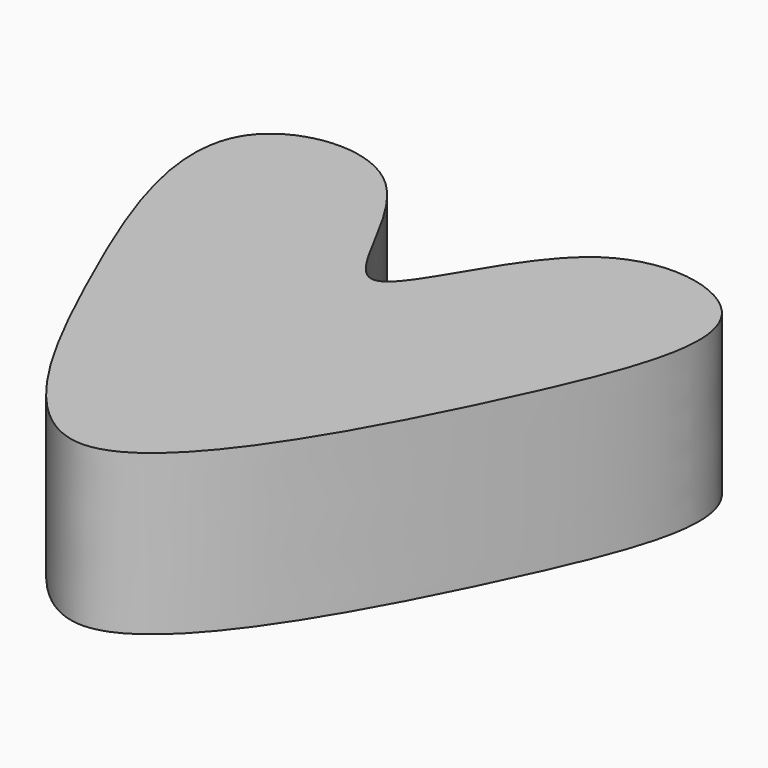
from build123d import *

# Parameters (mm, degrees)
F1_DEPTH = 25.4


with BuildPart() as f1:
    # F0 (on Top) → F1 (new body)
    with BuildSketch(Plane.XY):
        with BuildLine():
            add(Edge.make_bspline(
                [(0, 0), (4.3933145702, -0.1120914895), (13.6274721117, 29.838521997), (48.0325876156, 22.6458507937), (35.0080749169, -12.9598445145), (-0.21027845, -78.4511523976), (-28.9065110348, -21.1737659642), (-46.7319322029, 24.1231982435), (-11.4261267001, 29.1498327275), (-4.3040385439, 0.1098136916), (0, 0)],
                knots=[0, 0, 0, 0, 0.1149641911, 0.2160521857, 0.3408938474, 0.5020816647, 0.6475781038, 0.789167781, 0.8873719827, 1, 1, 1, 1], degree=3))
        make_face()
    extrude(amount=F1_DEPTH)


solid = f1.part
